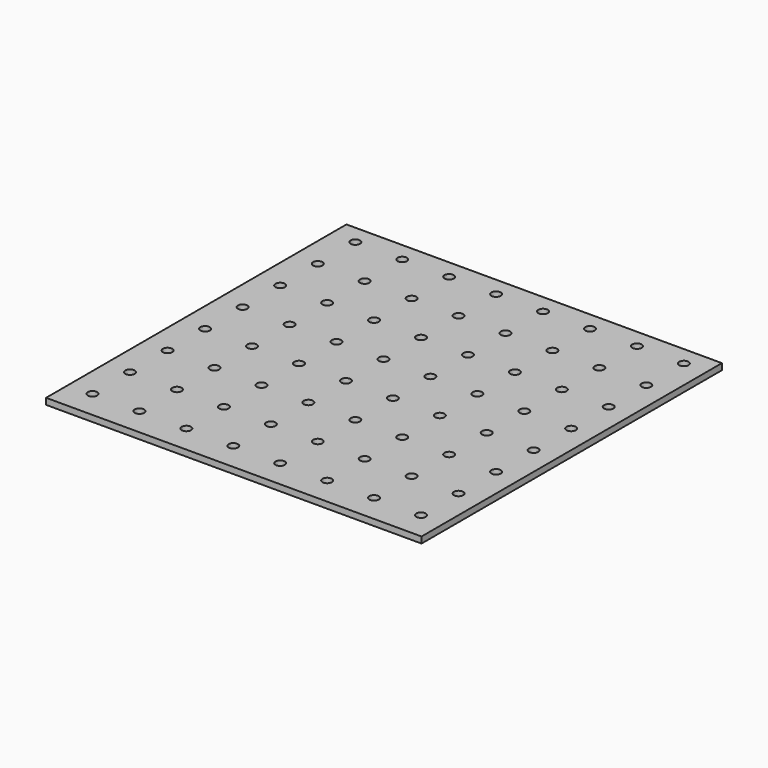
from build123d import *

# Parameters (mm, degrees)
F0_W     = 120
F0_H     = 120
F0_R     = 1.5
F1_DEPTH = 2


with BuildPart() as f1:
    # F0 (on Top) → F1 (new body)
    with BuildSketch(Plane.XY):
        with Locations((4.213179, -19.793133)):
            Rectangle(F0_W, F0_H)
        with Locations((-48.08242, -70.88533)):
            Circle(F0_R, mode=Mode.SUBTRACT)
        with Locations((-33.08242, -70.88533)):
            Circle(F0_R, mode=Mode.SUBTRACT)
        with Locations((-48.08242, -55.88533)):
            Circle(F0_R, mode=Mode.SUBTRACT)
        with Locations((-33.08242, -55.88533)):
            Circle(F0_R, mode=Mode.SUBTRACT)
        with Locations((-18.08242, -70.88533)):
            Circle(F0_R, mode=Mode.SUBTRACT)
        with Locations((-3.08242, -70.88533)):
            Circle(F0_R, mode=Mode.SUBTRACT)
        with Locations((-18.08242, -55.88533)):
            Circle(F0_R, mode=Mode.SUBTRACT)
        with Locations((-3.08242, -55.88533)):
            Circle(F0_R, mode=Mode.SUBTRACT)
        with Locations((-48.08242, -40.88533)):
            Circle(F0_R, mode=Mode.SUBTRACT)
        with Locations((-33.08242, -40.88533)):
            Circle(F0_R, mode=Mode.SUBTRACT)
        with Locations((-48.08242, -25.88533)):
            Circle(F0_R, mode=Mode.SUBTRACT)
        with Locations((-33.08242, -25.88533)):
            Circle(F0_R, mode=Mode.SUBTRACT)
        with Locations((-18.08242, -40.88533)):
            Circle(F0_R, mode=Mode.SUBTRACT)
        with Locations((-3.08242, -40.88533)):
            Circle(F0_R, mode=Mode.SUBTRACT)
        with Locations((-18.08242, -25.88533)):
            Circle(F0_R, mode=Mode.SUBTRACT)
        with Locations((-3.08242, -25.88533)):
            Circle(F0_R, mode=Mode.SUBTRACT)
        with Locations((11.91758, -70.88533)):
            Circle(F0_R, mode=Mode.SUBTRACT)
        with Locations((26.91758, -70.88533)):
            Circle(F0_R, mode=Mode.SUBTRACT)
        with Locations((11.91758, -55.88533)):
            Circle(F0_R, mode=Mode.SUBTRACT)
        with Locations((26.91758, -55.88533)):
            Circle(F0_R, mode=Mode.SUBTRACT)
        with Locations((41.91758, -70.88533)):
            Circle(F0_R, mode=Mode.SUBTRACT)
        with Locations((56.91758, -70.88533)):
            Circle(F0_R, mode=Mode.SUBTRACT)
        with Locations((41.91758, -55.88533)):
            Circle(F0_R, mode=Mode.SUBTRACT)
        with Locations((56.91758, -55.88533)):
            Circle(F0_R, mode=Mode.SUBTRACT)
        with Locations((11.91758, -40.88533)):
            Circle(F0_R, mode=Mode.SUBTRACT)
        with Locations((26.91758, -40.88533)):
            Circle(F0_R, mode=Mode.SUBTRACT)
        with Locations((11.91758, -25.88533)):
            Circle(F0_R, mode=Mode.SUBTRACT)
        with Locations((26.91758, -25.88533)):
            Circle(F0_R, mode=Mode.SUBTRACT)
        with Locations((41.91758, -40.88533)):
            Circle(F0_R, mode=Mode.SUBTRACT)
        with Locations((56.91758, -40.88533)):
            Circle(F0_R, mode=Mode.SUBTRACT)
        with Locations((41.91758, -25.88533)):
            Circle(F0_R, mode=Mode.SUBTRACT)
        with Locations((56.91758, -25.88533)):
            Circle(F0_R, mode=Mode.SUBTRACT)
        with Locations((-48.08242, -10.88533)):
            Circle(F0_R, mode=Mode.SUBTRACT)
        with Locations((-33.08242, -10.88533)):
            Circle(F0_R, mode=Mode.SUBTRACT)
        with Locations((-48.08242, 4.11467)):
            Circle(F0_R, mode=Mode.SUBTRACT)
        with Locations((-33.08242, 4.11467)):
            Circle(F0_R, mode=Mode.SUBTRACT)
        with Locations((-18.08242, -10.88533)):
            Circle(F0_R, mode=Mode.SUBTRACT)
        with Locations((-3.08242, -10.88533)):
            Circle(F0_R, mode=Mode.SUBTRACT)
        with Locations((-18.08242, 4.11467)):
            Circle(F0_R, mode=Mode.SUBTRACT)
        with Locations((-3.08242, 4.11467)):
            Circle(F0_R, mode=Mode.SUBTRACT)
        with Locations((-48.08242, 19.11467)):
            Circle(F0_R, mode=Mode.SUBTRACT)
        with Locations((-33.08242, 19.11467)):
            Circle(F0_R, mode=Mode.SUBTRACT)
        with Locations((-48.08242, 34.11467)):
            Circle(F0_R, mode=Mode.SUBTRACT)
        with Locations((-33.08242, 34.11467)):
            Circle(F0_R, mode=Mode.SUBTRACT)
        with Locations((-18.08242, 19.11467)):
            Circle(F0_R, mode=Mode.SUBTRACT)
        with Locations((-3.08242, 19.11467)):
            Circle(F0_R, mode=Mode.SUBTRACT)
        with Locations((-18.08242, 34.11467)):
            Circle(F0_R, mode=Mode.SUBTRACT)
        with Locations((-3.08242, 34.11467)):
            Circle(F0_R, mode=Mode.SUBTRACT)
        with Locations((11.91758, -10.88533)):
            Circle(F0_R, mode=Mode.SUBTRACT)
        with Locations((26.91758, -10.88533)):
            Circle(F0_R, mode=Mode.SUBTRACT)
        with Locations((11.91758, 4.11467)):
            Circle(F0_R, mode=Mode.SUBTRACT)
        with Locations((26.91758, 4.11467)):
            Circle(F0_R, mode=Mode.SUBTRACT)
        with Locations((41.91758, -10.88533)):
            Circle(F0_R, mode=Mode.SUBTRACT)
        with Locations((56.91758, -10.88533)):
            Circle(F0_R, mode=Mode.SUBTRACT)
        with Locations((41.91758, 4.11467)):
            Circle(F0_R, mode=Mode.SUBTRACT)
        with Locations((56.91758, 4.11467)):
            Circle(F0_R, mode=Mode.SUBTRACT)
        with Locations((11.91758, 19.11467)):
            Circle(F0_R, mode=Mode.SUBTRACT)
        with Locations((26.91758, 19.11467)):
            Circle(F0_R, mode=Mode.SUBTRACT)
        with Locations((11.91758, 34.11467)):
            Circle(F0_R, mode=Mode.SUBTRACT)
        with Locations((26.91758, 34.11467)):
            Circle(F0_R, mode=Mode.SUBTRACT)
        with Locations((41.91758, 19.11467)):
            Circle(F0_R, mode=Mode.SUBTRACT)
        with Locations((56.91758, 19.11467)):
            Circle(F0_R, mode=Mode.SUBTRACT)
        with Locations((41.91758, 34.11467)):
            Circle(F0_R, mode=Mode.SUBTRACT)
        with Locations((56.91758, 34.11467)):
            Circle(F0_R, mode=Mode.SUBTRACT)
    extrude(amount=F1_DEPTH)


solid = f1.part
